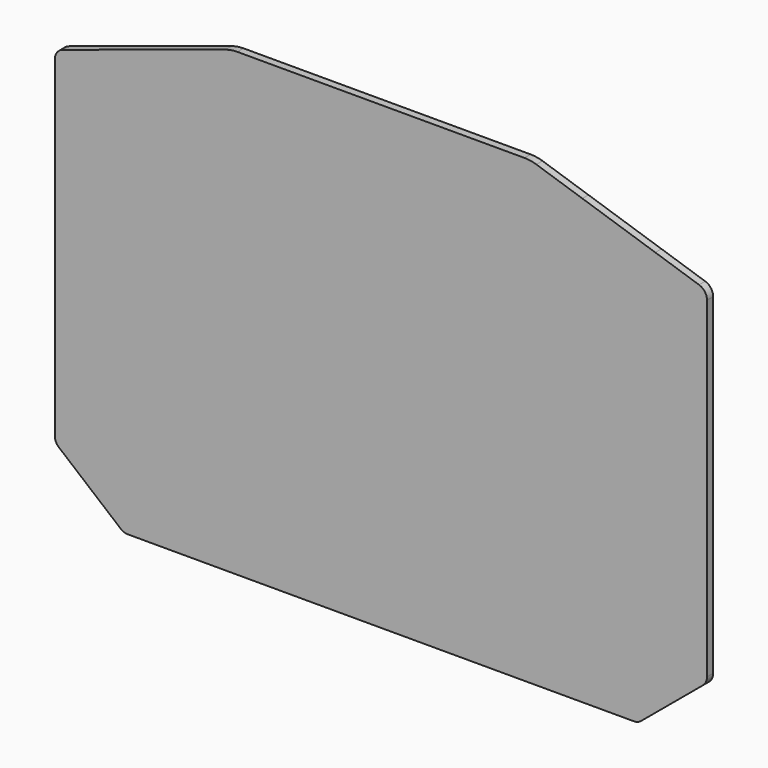
from build123d import *

# Parameters (mm, degrees)
F1_DEPTH = 2


with BuildPart() as f1:
    # F0 (on Front) → F1 (new body)
    with BuildSketch(Plane.XZ):
        with BuildLine():
            ThreePointArc((69.220553, -52.070138), (70.016768, -51.03794), (70.3, -49.765474))
            Line((70.3, -49.765474), (70.3, -31.170599))
            Line((70.3, -31.170599), (70.3, 36.652191))
            ThreePointArc((70.3, 36.652191), (69.727981, 38.414266), (68.230062, 39.504381))
            Line((68.230062, 39.504381), (56.807298, 43.229195))
            Line((56.807298, 43.229195), (37.792702, 49.429607))
            Line((37.792702, 49.429607), (25.810952, 53.336699))
            ThreePointArc((25.810952, 53.336699), (24.280302, 53.705457), (22.710746, 53.829401))
            Line((22.710746, 53.829401), (-52.110746, 53.829401))
            ThreePointArc((-52.110746, 53.829401), (-53.680302, 53.705457), (-55.210952, 53.336699))
            Line((-55.210952, 53.336699), (-97.630062, 39.504381))
            ThreePointArc((-97.630062, 39.504381), (-99.127981, 38.414266), (-99.7, 36.652191))
            Line((-99.7, 36.652191), (-99.7, -49.765474))
            ThreePointArc((-99.7, -49.765474), (-99.416768, -51.03794), (-98.620553, -52.070138))
            Line((-98.620553, -52.070138), (-82.534403, -65.475263))
            ThreePointArc((-82.534403, -65.475263), (-81.635126, -65.991414), (-80.61385, -66.170599))
            Line((-80.61385, -66.170599), (51.21385, -66.170599))
            ThreePointArc((51.21385, -66.170599), (52.235126, -65.991414), (53.134403, -65.475263))
            Line((53.134403, -65.475263), (69.220553, -52.070138))
        make_face()
    extrude(amount=F1_DEPTH)


solid = f1.part
